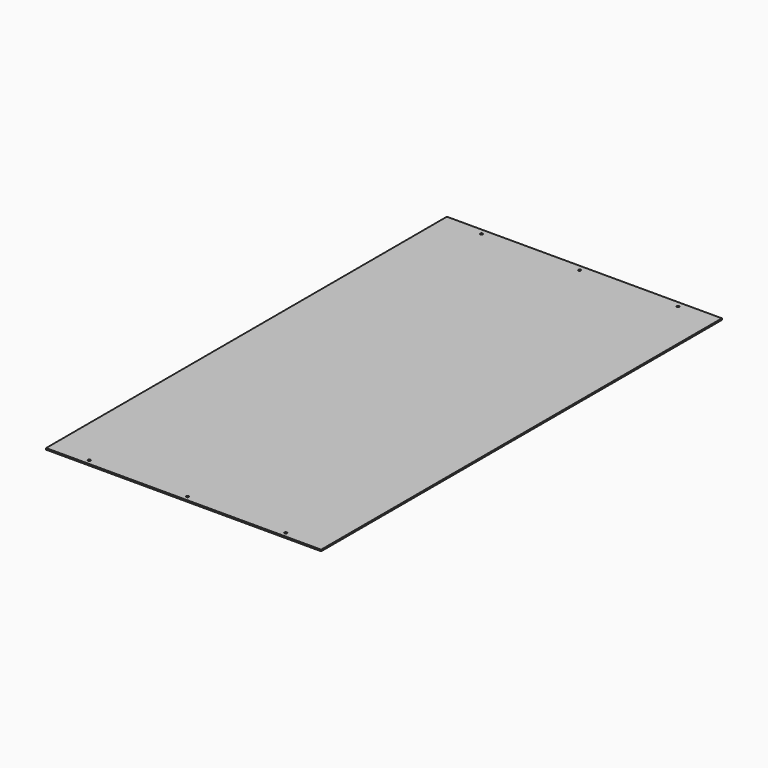
from build123d import *

# Parameters (mm, degrees)
SKETCH_W  = 560
SKETCH_H  = 1020
SKETCH_R  = 2.5
PAD_DEPTH = 3


with BuildPart() as part:
    # Sketch → Pad (new body)
    with BuildSketch(Plane.XY):
        with Locations((280, 510)):
            Rectangle(SKETCH_W, SKETCH_H)
        with Locations((80, 1008)):
            Circle(SKETCH_R, mode=Mode.SUBTRACT)
        with Locations((280, 1008)):
            Circle(SKETCH_R, mode=Mode.SUBTRACT)
        with Locations((480, 1008)):
            Circle(SKETCH_R, mode=Mode.SUBTRACT)
        with Locations((80, 10)):
            Circle(SKETCH_R, mode=Mode.SUBTRACT)
        with Locations((280, 10)):
            Circle(SKETCH_R, mode=Mode.SUBTRACT)
        with Locations((480, 10)):
            Circle(SKETCH_R, mode=Mode.SUBTRACT)
    extrude(amount=PAD_DEPTH)


solid = part.part
